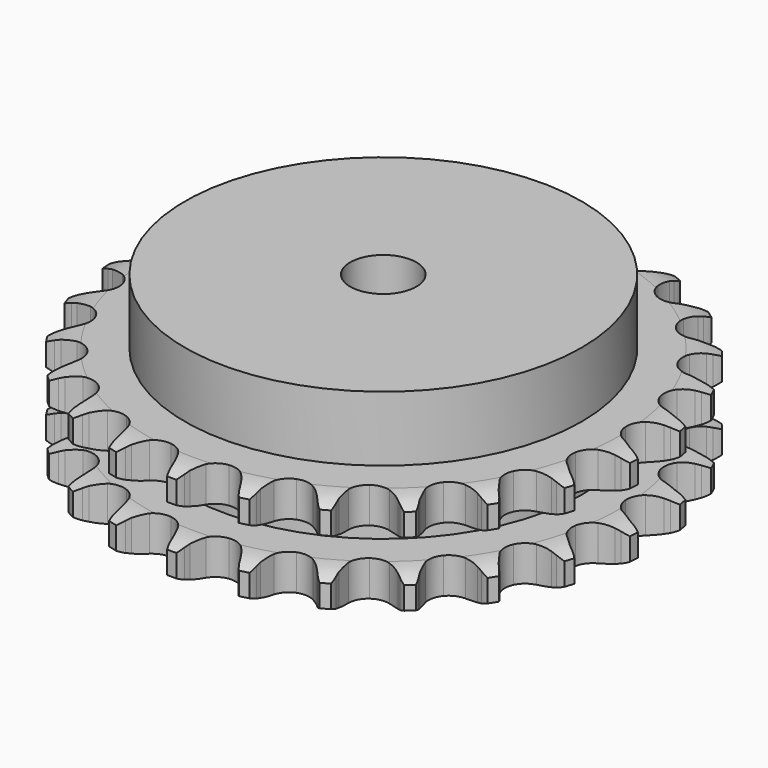
from build123d import *

# Parameters (mm, degrees)
PAD_DEPTH         = 30.3
SKETCH001_R       = 60
PAD001_DEPTH      = 50
SKETCH002_R       = 10
POCKET_DEPTH      = 0.001
POCKET_DEPTH_BACK = 50.001


with BuildPart() as part:
    # Sprocket → Pad (new body)
    with BuildSketch(Plane.XY):
        with BuildLine():
            ThreePointArc((-10.277544, 81.355136), (-8.691144, 79.605387), (-7.564451, 77.52961))
            Line((-7.564451, 77.52961), (-6.977682, 76.050618))
            ThreePointArc((-6.977682, 76.050618), (-6.042598, 74.097196), (-4.848531, 72.290419))
            ThreePointArc((-4.848531, 72.290419), (-2.704185, 70.525898), (0, 69.894126))
            ThreePointArc((0, 69.894126), (2.704185, 70.525898), (4.848531, 72.290419))
            ThreePointArc((4.848531, 72.290419), (6.042598, 74.097196), (6.977682, 76.050618))
            Line((6.977682, 76.050618), (7.564451, 77.52961))
            ThreePointArc((7.564451, 77.52961), (8.691144, 79.605387), (10.277544, 81.355136))
            ThreePointArc((10.277544, 81.355136), (11.378959, 79.265837), (11.95403, 76.975077))
            Line((11.95403, 76.975077), (12.154554, 75.396627))
            ThreePointArc((12.154554, 75.396627), (12.574465, 73.27203), (13.281691, 71.225063))
            ThreePointArc((13.281691, 71.225063), (14.919849, 68.9827), (17.381962, 67.698273))
            ThreePointArc((17.381962, 67.698273), (20.158306, 67.637693), (22.674102, 68.813502))
            Line((22.674102, 68.813502), (25.671485, 71.926069))
            ThreePointArc((25.671485, 71.926069), (26.123309, 72.581193), (26.60763, 73.212672))
            ThreePointArc((26.60763, 73.212672), (28.21515, 74.943037), (30.186855, 76.243294))
            ThreePointArc((30.186855, 76.243294), (30.73408, 73.945723), (30.721395, 71.583917))
            Line((30.721395, 71.583917), (30.523075, 70.005188))
            ThreePointArc((30.523075, 70.005188), (30.401428, 67.842912), (30.577375, 65.684375))
            ThreePointArc((30.577375, 65.684375), (31.606415, 63.105066), (33.671752, 61.248689))
            ThreePointArc((33.671752, 61.248689), (36.345806, 60.499564), (39.074975, 61.01278))
            Line((39.074975, 61.01278), (42.752254, 63.282141))
            ThreePointArc((42.752254, 63.282141), (43.352806, 63.804318), (43.978953, 64.295513))
            ThreePointArc((43.978953, 64.295513), (45.966295, 65.571742), (48.199416, 66.340805))
            ThreePointArc((48.199416, 66.340805), (48.158066, 63.979327), (47.558422, 61.694876))
            Line((47.558422, 61.694876), (46.973719, 60.215067))
            ThreePointArc((46.973719, 60.215067), (46.318157, 58.150974), (45.95177, 56.016495))
            ThreePointArc((45.95177, 56.016495), (46.307033, 53.262309), (47.845822, 50.950625))
            ThreePointArc((47.845822, 50.950625), (50.249565, 49.560025), (53.020624, 49.3784))
            Line((53.020624, 49.3784), (57.146742, 50.661963))
            ThreePointArc((57.146742, 50.661963), (57.858287, 51.018384), (58.586917, 51.33843))
            ThreePointArc((58.586917, 51.33843), (60.829208, 52.080332), (63.18343, 52.269879))
            ThreePointArc((63.18343, 52.269879), (62.556103, 49.992875), (61.407179, 47.929319))
            Line((61.407179, 47.929319), (60.472831, 46.641411))
            ThreePointArc((60.472831, 46.641411), (59.324546, 44.805197), (58.438847, 42.828894))
            ThreePointArc((58.438847, 42.828894), (58.09801, 40.072885), (59.013562, 37.451145))
            ThreePointArc((59.013562, 37.451145), (60.99596, 35.506447), (63.634792, 34.641394))
            Line((63.634792, 34.641394), (67.950489, 34.858507))
            ThreePointArc((67.950489, 34.858507), (68.728318, 35.026777), (69.51365, 35.155565))
            ThreePointArc((69.51365, 35.155565), (71.869999, 35.316524), (74.197396, 34.914645))
            ThreePointArc((74.197396, 34.914645), (73.023511, 32.865186), (71.397497, 31.152187))
            Line((71.397497, 31.152187), (70.172213, 30.137103))
            ThreePointArc((70.172213, 30.137103), (68.603356, 28.644145), (67.253996, 26.950195))
            ThreePointArc((67.253996, 26.950195), (66.238475, 24.365534), (66.473264, 21.598473))
            ThreePointArc((66.473264, 21.598473), (67.909754, 19.221868), (70.250553, 17.727741))
            Line((70.250553, 17.727741), (74.484658, 16.864763))
            ThreePointArc((74.484658, 16.864763), (75.279897, 16.834308), (76.072584, 16.763747))
            ThreePointArc((76.072584, 16.763747), (78.394933, 16.333648), (80.549268, 15.365595))
            ThreePointArc((80.549268, 15.365595), (78.902582, 13.672457), (76.901647, 12.417649))
            Line((76.901647, 12.417649), (75.462417, 11.739171))
            ThreePointArc((75.462417, 11.739171), (73.571565, 10.683275), (71.843329, 9.378116))
            ThreePointArc((71.843329, 9.378116), (70.216934, 7.127207), (69.756206, 4.388688))
            ThreePointArc((69.756206, 4.388688), (70.556528, 1.729509), (72.452212, -0.29981))
            Line((72.452212, -0.29981), (76.338682, -2.188655))
            ThreePointArc((76.338682, -2.188655), (77.101363, -2.415921), (77.851598, -2.6814))
            ThreePointArc((77.851598, -2.6814), (79.994025, -3.67553), (81.839932, -5.148932))
            ThreePointArc((81.839932, -5.148932), (79.823914, -6.379362), (77.573784, -7.097136))
            Line((77.573784, -7.097136), (76.01104, -7.396377))
            ThreePointArc((76.01104, -7.396377), (73.917001, -7.948864), (71.918481, -8.783224))
            ThreePointArc((71.918481, -8.783224), (69.783404, -10.558949), (68.656109, -13.096853))
            ThreePointArc((68.656109, -13.096853), (68.769976, -15.871522), (70.101433, -18.308524))
            Line((70.101433, -18.308524), (73.396065, -21.104553))
            ThreePointArc((73.396065, -21.104553), (74.078266, -21.51435), (74.73891, -21.958064))
            ThreePointArc((74.73891, -21.958064), (76.566798, -23.453762), (77.988293, -25.339933))
            ThreePointArc((77.988293, -25.339933), (75.729616, -26.030343), (73.371675, -26.165982))
            Line((73.371675, -26.165982), (71.783609, -26.067183))
            ThreePointArc((71.783609, -26.067183), (69.617961, -26.081546), (67.474731, -26.392682))
            ThreePointArc((67.474731, -26.392682), (64.965126, -27.581647), (63.242096, -29.759471))
            ThreePointArc((63.242096, -29.759471), (62.662354, -32.475287), (63.345923, -35.166845))
            Line((63.345923, -35.166845), (65.841704, -38.694374))
            ThreePointArc((65.841704, -38.694374), (66.40056, -39.260953), (66.930102, -39.855022))
            ThreePointArc((66.930102, -39.855022), (68.328598, -41.758307), (69.236363, -43.938732))
            ThreePointArc((69.236363, -43.938732), (66.876948, -44.045742), (64.559353, -43.590723))
            Line((64.559353, -43.590723), (63.04575, -43.100092))
            ThreePointArc((63.04575, -43.100092), (60.944568, -42.575429), (58.791295, -42.34379))
            ThreePointArc((58.791295, -42.34379), (56.064851, -42.871288), (53.85435, -44.552193))
            ThreePointArc((53.85435, -44.552193), (52.617426, -47.03851), (52.610155, -49.815505))
            Line((52.610155, -49.815505), (54.150266, -53.852885))
            ThreePointArc((54.150266, -53.852885), (54.550663, -54.540646), (54.915828, -55.247743))
            ThreePointArc((54.915828, -55.247743), (55.797061, -57.439025), (56.134057, -59.776699))
            ThreePointArc((56.134057, -59.776699), (53.822155, -59.293584), (51.690531, -58.276499))
            Line((51.690531, -58.276499), (50.346495, -57.424864))
            ThreePointArc((50.346495, -57.424864), (48.441803, -56.394141), (46.413786, -55.634283))
            ThreePointArc((46.413786, -55.634283), (43.641814, -55.46717), (41.082736, -56.545536))
            ThreePointArc((41.082736, -56.545536), (39.266351, -58.64613), (38.568698, -61.334073))
            Line((38.568698, -61.334073), (39.056368, -65.627621))
            ThreePointArc((39.056368, -65.627621), (39.273146, -66.393349), (39.450992, -67.169044))
            ThreePointArc((39.450992, -67.169044), (39.759589, -69.510637), (39.504642, -71.858676))
            ThreePointArc((39.504642, -71.858676), (37.385519, -70.815793), (35.573802, -69.300548))
            Line((35.573802, -69.300548), (34.483784, -68.14142))
            ThreePointArc((34.483784, -68.14142), (32.895262, -66.669402), (31.119928, -65.429069))
            ThreePointArc((31.119928, -65.429069), (28.476602, -64.577844), (25.729744, -64.985915))
            ThreePointArc((25.729744, -64.985915), (23.448027, -66.568798), (22.103828, -68.998795))
            Line((22.103828, -68.998795), (21.508415, -73.278732))
            ThreePointArc((21.508415, -73.278732), (21.527954, -74.074314), (21.507304, -74.869868))
            ThreePointArc((21.507304, -74.869868), (21.223876, -77.21464), (20.393005, -79.425509))
            ThreePointArc((20.393005, -79.425509), (18.599812, -77.888385), (17.22184, -75.970188))
            Line((17.22184, -75.970188), (16.454331, -74.576401))
            ThreePointArc((16.454331, -74.576401), (15.281791, -72.75558), (13.870691, -71.112706))
            ThreePointArc((13.870691, -71.112706), (11.522101, -69.630856), (8.760057, -69.34299))
            ThreePointArc((8.760057, -69.34299), (6.156377, -70.308704), (4.250093, -72.32807))
            Line((4.250093, -72.32807), (2.609009, -76.325472))
            ThreePointArc((2.609009, -76.325472), (2.43008, -77.100918), (2.212234, -77.866343))
            ThreePointArc((2.212234, -77.866343), (1.354589, -80.066964), (0, -82.001744))
            ThreePointArc((0, -82.001744), (-1.354589, -80.066964), (-2.212234, -77.866343))
            Line((-2.212234, -77.866343), (-2.609009, -76.325472))
            ThreePointArc((-2.609009, -76.325472), (-3.291891, -74.270256), (-4.250093, -72.32807))
            ThreePointArc((-4.250093, -72.32807), (-6.156377, -70.308704), (-8.760057, -69.34299))
            ThreePointArc((-8.760057, -69.34299), (-11.522101, -69.630856), (-13.870691, -71.112706))
            Line((-13.870691, -71.112706), (-16.454331, -74.576401))
            ThreePointArc((-16.454331, -74.576401), (-16.820484, -75.282987), (-17.22184, -75.970188))
            ThreePointArc((-17.22184, -75.970188), (-18.599812, -77.888385), (-20.393005, -79.425509))
            ThreePointArc((-20.393005, -79.425509), (-21.223876, -77.21464), (-21.507304, -74.869868))
            Line((-21.507304, -74.869868), (-21.508415, -73.278732))
            ThreePointArc((-21.508415, -73.278732), (-21.658732, -71.118259), (-22.103828, -68.998795))
            ThreePointArc((-22.103828, -68.998795), (-23.448027, -66.568798), (-25.729744, -64.985915))
            ThreePointArc((-25.729744, -64.985915), (-28.476602, -64.577844), (-31.119928, -65.429069))
            Line((-31.119928, -65.429069), (-34.483784, -68.14142))
            ThreePointArc((-34.483784, -68.14142), (-35.014155, -68.73475), (-35.573802, -69.300548))
            ThreePointArc((-35.573802, -69.300548), (-37.385519, -70.815793), (-39.504642, -71.858676))
            ThreePointArc((-39.504642, -71.858676), (-39.759589, -69.510637), (-39.450992, -67.169044))
            Line((-39.450992, -67.169044), (-39.056368, -65.627621))
            ThreePointArc((-39.056368, -65.627621), (-38.664675, -63.497641), (-38.568698, -61.334073))
            ThreePointArc((-38.568698, -61.334073), (-39.266351, -58.64613), (-41.082736, -56.545536))
            ThreePointArc((-41.082736, -56.545536), (-43.641814, -55.46717), (-46.413786, -55.634283))
            Line((-46.413786, -55.634283), (-50.346495, -57.424864))
            ThreePointArc((-50.346495, -57.424864), (-51.007758, -57.867655), (-51.690531, -58.276499))
            ThreePointArc((-51.690531, -58.276499), (-53.822155, -59.293584), (-56.134057, -59.776699))
            ThreePointArc((-56.134057, -59.776699), (-55.797061, -57.439025), (-54.915828, -55.247743))
            Line((-54.915828, -55.247743), (-54.150266, -53.852885))
            ThreePointArc((-54.150266, -53.852885), (-53.241174, -51.887232), (-52.610155, -49.815505))
            ThreePointArc((-52.610155, -49.815505), (-52.617426, -47.03851), (-53.85435, -44.552193))
            ThreePointArc((-53.85435, -44.552193), (-56.064851, -42.871288), (-58.791295, -42.34379))
            Line((-58.791295, -42.34379), (-63.04575, -43.100092))
            ThreePointArc((-63.04575, -43.100092), (-63.796356, -43.364522), (-64.559353, -43.590723))
            ThreePointArc((-64.559353, -43.590723), (-66.876948, -44.045742), (-69.236363, -43.938732))
            ThreePointArc((-69.236363, -43.938732), (-68.328598, -41.758307), (-66.930102, -39.855022))
            Line((-66.930102, -39.855022), (-65.841704, -38.694374))
            ThreePointArc((-65.841704, -38.694374), (-64.472335, -37.016557), (-63.345923, -35.166845))
            ThreePointArc((-63.345923, -35.166845), (-62.662354, -32.475287), (-63.242096, -29.759471))
            ThreePointArc((-63.242096, -29.759471), (-64.965126, -27.581647), (-67.474731, -26.392682))
            Line((-67.474731, -26.392682), (-71.783609, -26.067183))
            ThreePointArc((-71.783609, -26.067183), (-72.576394, -26.136638), (-73.371675, -26.165982))
            ThreePointArc((-73.371675, -26.165982), (-75.729616, -26.030343), (-77.988293, -25.339933))
            ThreePointArc((-77.988293, -25.339933), (-76.566798, -23.453762), (-74.73891, -21.958064))
            Line((-74.73891, -21.958064), (-73.396065, -21.104553))
            ThreePointArc((-73.396065, -21.104553), (-71.652461, -19.819997), (-70.101433, -18.308524))
            ThreePointArc((-70.101433, -18.308524), (-68.769976, -15.871522), (-68.656109, -13.096853))
            ThreePointArc((-68.656109, -13.096853), (-69.783404, -10.558949), (-71.918481, -8.783224))
            Line((-71.918481, -8.783224), (-76.01104, -7.396377))
            ThreePointArc((-76.01104, -7.396377), (-76.796191, -7.266492), (-77.573784, -7.097136))
            ThreePointArc((-77.573784, -7.097136), (-79.823914, -6.379362), (-81.839932, -5.148932))
            ThreePointArc((-81.839932, -5.148932), (-79.994025, -3.67553), (-77.851598, -2.6814))
            Line((-77.851598, -2.6814), (-76.338682, -2.188655))
            ThreePointArc((-76.338682, -2.188655), (-74.3304, -1.378072), (-72.452212, -0.29981))
            ThreePointArc((-72.452212, -0.29981), (-70.556528, 1.729509), (-69.756206, 4.388688))
            ThreePointArc((-69.756206, 4.388688), (-70.216934, 7.127207), (-71.843329, 9.378116))
            Line((-71.843329, 9.378116), (-75.462417, 11.739171))
            ThreePointArc((-75.462417, 11.739171), (-76.1906, 12.060234), (-76.901647, 12.417649))
            ThreePointArc((-76.901647, 12.417649), (-78.902582, 13.672457), (-80.549268, 15.365595))
            ThreePointArc((-80.549268, 15.365595), (-78.394933, 16.333648), (-76.072584, 16.763747))
            Line((-76.072584, 16.763747), (-74.484658, 16.864763))
            ThreePointArc((-74.484658, 16.864763), (-72.337887, 17.150441), (-70.250553, 17.727741))
            ThreePointArc((-70.250553, 17.727741), (-67.909754, 19.221868), (-66.473264, 21.598473))
            ThreePointArc((-66.473264, 21.598473), (-66.238475, 24.365534), (-67.253996, 26.950195))
            Line((-67.253996, 26.950195), (-70.172213, 30.137103))
            ThreePointArc((-70.172213, 30.137103), (-70.797674, 30.629172), (-71.397497, 31.152187))
            ThreePointArc((-71.397497, 31.152187), (-73.023511, 32.865186), (-74.197396, 34.914645))
            ThreePointArc((-74.197396, 34.914645), (-71.869999, 35.316524), (-69.51365, 35.155565))
            Line((-69.51365, 35.155565), (-67.950489, 34.858507))
            ThreePointArc((-67.950489, 34.858507), (-65.800118, 34.601329), (-63.634792, 34.641394))
            ThreePointArc((-63.634792, 34.641394), (-60.99596, 35.506447), (-59.013562, 37.451145))
            ThreePointArc((-59.013562, 37.451145), (-58.09801, 40.072885), (-58.438847, 42.828894))
            Line((-58.438847, 42.828894), (-60.472831, 46.641411))
            ThreePointArc((-60.472831, 46.641411), (-60.95627, 47.273565), (-61.407179, 47.929319))
            ThreePointArc((-61.407179, 47.929319), (-62.556103, 49.992875), (-63.18343, 52.269879))
            ThreePointArc((-63.18343, 52.269879), (-60.829208, 52.080332), (-58.586917, 51.33843))
            Line((-58.586917, 51.33843), (-57.146742, 50.661963))
            ThreePointArc((-57.146742, 50.661963), (-55.127885, 49.878089), (-53.020624, 49.3784))
            ThreePointArc((-53.020624, 49.3784), (-50.249565, 49.560025), (-47.845822, 50.950625))
            ThreePointArc((-47.845822, 50.950625), (-46.307033, 53.262309), (-45.95177, 56.016495))
            Line((-45.95177, 56.016495), (-46.973719, 60.215067))
            ThreePointArc((-46.973719, 60.215067), (-47.284759, 60.947587), (-47.558422, 61.694876))
            ThreePointArc((-47.558422, 61.694876), (-48.158066, 63.979327), (-48.199416, 66.340805))
            ThreePointArc((-48.199416, 66.340805), (-45.966295, 65.571742), (-43.978953, 64.295513))
            Line((-43.978953, 64.295513), (-42.752254, 63.282141))
            ThreePointArc((-42.752254, 63.282141), (-40.991765, 62.020825), (-39.074975, 61.01278))
            ThreePointArc((-39.074975, 61.01278), (-36.345806, 60.499564), (-33.671752, 61.248689))
            ThreePointArc((-33.671752, 61.248689), (-31.606415, 63.105066), (-30.577375, 65.684375))
            Line((-30.577375, 65.684375), (-30.523075, 70.005188))
            ThreePointArc((-30.523075, 70.005188), (-30.642173, 70.792048), (-30.721395, 71.583917))
            ThreePointArc((-30.721395, 71.583917), (-30.73408, 73.945723), (-30.186855, 76.243294))
            ThreePointArc((-30.186855, 76.243294), (-28.21515, 74.943037), (-26.60763, 73.212672))
            Line((-26.60763, 73.212672), (-25.671485, 71.926069))
            ThreePointArc((-25.671485, 71.926069), (-24.279982, 70.266564), (-22.674102, 68.813502))
            ThreePointArc((-22.674102, 68.813502), (-20.158306, 67.637693), (-17.381962, 67.698273))
            ThreePointArc((-17.381962, 67.698273), (-14.919849, 68.9827), (-13.281691, 71.225063))
            Line((-13.281691, 71.225063), (-12.154554, 75.396627))
            ThreePointArc((-12.154554, 75.396627), (-12.074226, 76.188384), (-11.95403, 76.975077))
            ThreePointArc((-11.95403, 76.975077), (-11.378959, 79.265837), (-10.277544, 81.355136))
        make_face()
    extrude(amount=PAD_DEPTH)

    # Sketch → Groove (revolve, cut)
    with BuildSketch(Plane.XZ):
        with BuildLine():
            ThreePointArc((71.514719, 0), (75.873618, 0.506758), (80, 2))
            Line((80, 2), (80, 8.8))
            ThreePointArc((80, 8.8), (75.873618, 10.293242), (71.514719, 10.8))
            Line((60, 10.8), (71.514719, 10.8))
            Line((60, 19.5), (60, 10.8))
            Line((71.514719, 19.5), (60, 19.5))
            ThreePointArc((71.514719, 19.5), (75.873618, 20.006758), (80, 21.5))
            Line((80, 21.5), (80, 28.3))
            ThreePointArc((80, 28.3), (75.873618, 29.793242), (71.514719, 30.3))
            Line((71.514719, 30.3), (90, 30.3))
            Line((90, 30.3), (90, 0))
            Line((71.514719, 0), (90, 0))
        make_face()
    revolve(axis=Axis((0, 0, 0), (0, 0, 1)), mode=Mode.SUBTRACT)

    # Sketch001 → Pad001 (join)
    with BuildSketch(Plane.XY):
        Circle(SKETCH001_R)
    extrude(amount=PAD001_DEPTH)

    # Sketch002 → Pocket (cut, two sides)
    with BuildSketch(Plane.XY) as pocket_sk:
        Circle(SKETCH002_R)
    extrude(amount=-POCKET_DEPTH, mode=Mode.SUBTRACT)
    extrude(pocket_sk.sketch, amount=POCKET_DEPTH_BACK, mode=Mode.SUBTRACT)


solid = part.part
